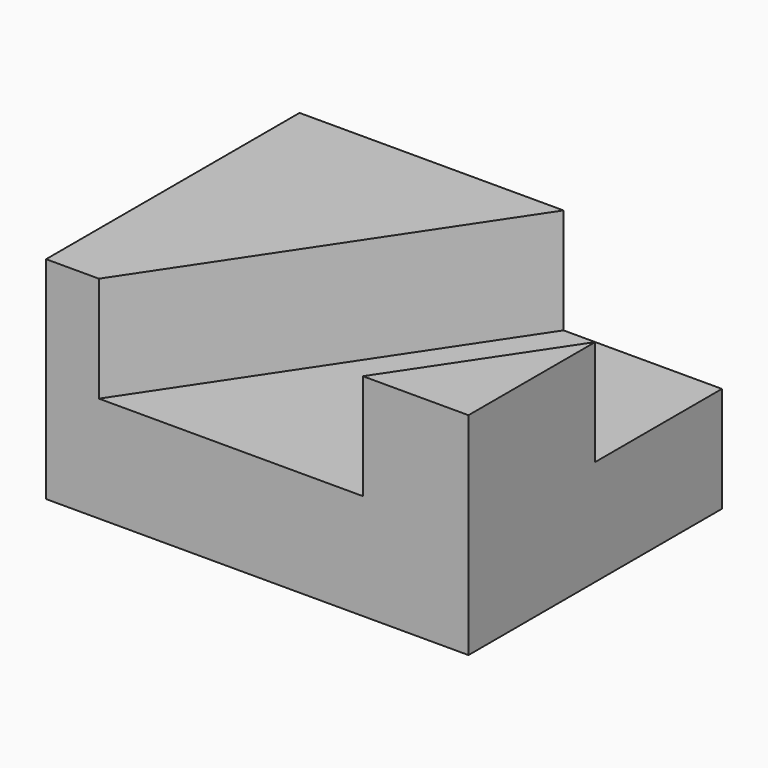
from build123d import *

# Parameters (mm, degrees)
F0_W     = 50.8
F0_H     = 38.1
F1_DEPTH = 25.4
F3_DEPTH = 12.7
F5_DEPTH = 12.7


with BuildPart() as f1:
    # F0 (on Top) → F1 (new body)
    with BuildSketch(Plane.XY):
        with Locations((-37.623553, 36.119502)):
            Rectangle(F0_W, F0_H)
    extrude(amount=F1_DEPTH)

    # F2 (on face) → F3 (cut)
    with BuildSketch(Plane.XY.offset(25.4)):
        Polygon((-12.223553, 55.169502), (-31.273553, 55.169502), (-56.673553, 17.069502), (-12.223553, 17.069502), align=None)
    extrude(amount=-F3_DEPTH, mode=Mode.SUBTRACT)

    # F4 (on face) → F5 (join)
    with BuildSketch(Plane.XY.offset(12.7)):
        Polygon((-24.923553, 17.069502), (-12.223553, 17.069502), (-12.223553, 36.119502), align=None)
    extrude(amount=F5_DEPTH)


solid = f1.part
